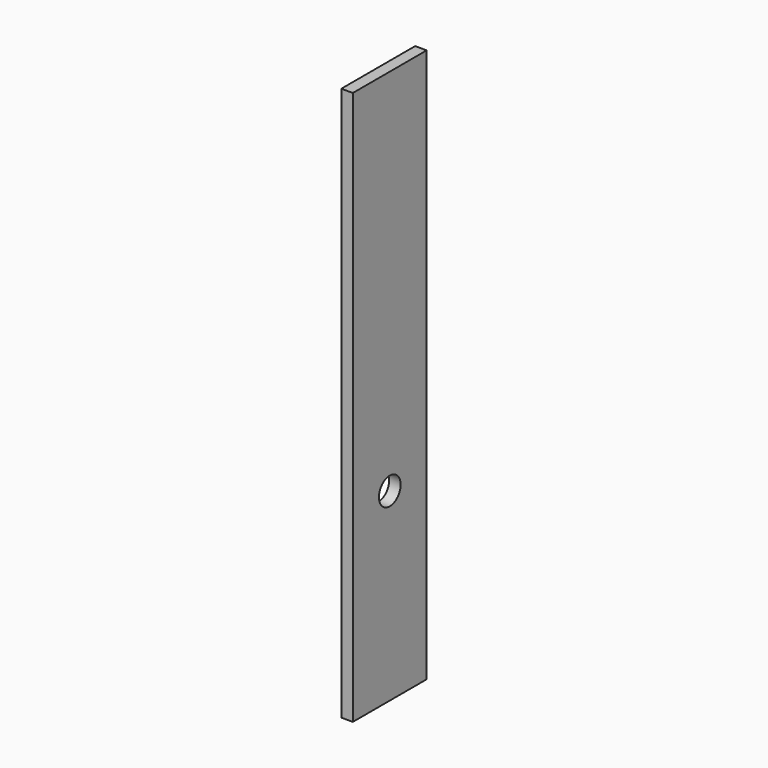
from build123d import *

# Parameters (mm, degrees)
F0_W     = 101.6
F0_H     = 609.6
F0_R     = 14.921552
F1_DEPTH = 12.7
F2_DEPTH = 12.7


with BuildPart() as f1:
    # F0 (on Right) → F1 (new body)
    with BuildSketch(Plane.YZ):
        with Locations((-5.578191, -6.483793)):
            Rectangle(F0_W, F0_H)
        with Locations((-5.578191, -108.083793)):
            Circle(F0_R, mode=Mode.SUBTRACT)
    extrude(amount=F1_DEPTH)

    # F0 (on Right) → F2 (join)
    with BuildSketch(Plane.YZ):
        with Locations((-5.578191, -6.483793)):
            Rectangle(F0_W, F0_H)
        with Locations((-5.578191, -108.083793)):
            Circle(F0_R, mode=Mode.SUBTRACT)
    extrude(amount=F2_DEPTH)


solid = f1.part
